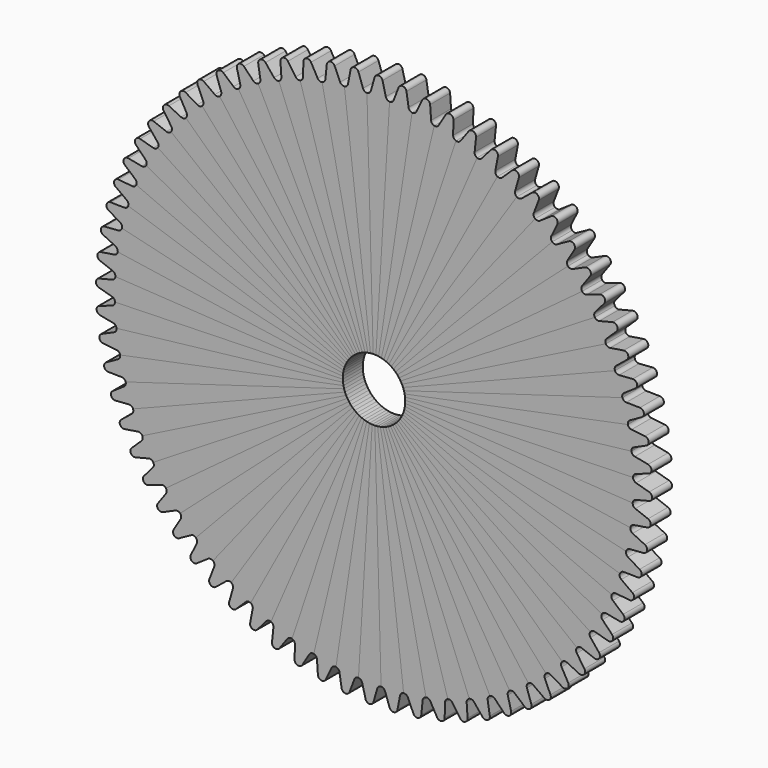
from build123d import *

# Parameters (mm, degrees)
F1_DEPTH = 5.08
F2_COUNT = 72
F3_D     = 12.7
F3_2_D   = 12.7
F3_3_D   = 12.7
F3_4_D   = 12.7
F3_5_D   = 12.7
F3_6_D   = 12.7
F3_7_D   = 12.7
F3_8_D   = 12.7
F3_9_D   = 12.7
F3_10_D  = 12.7
F3_11_D  = 12.7
F3_12_D  = 12.7
F3_13_D  = 12.7
F3_14_D  = 12.7
F3_15_D  = 12.7
F3_16_D  = 12.7
F3_17_D  = 12.7
F3_18_D  = 12.7
F3_19_D  = 12.7
F3_20_D  = 12.7
F3_21_D  = 12.7
F3_22_D  = 12.7
F3_23_D  = 12.7
F3_24_D  = 12.7
F3_25_D  = 12.7
F3_26_D  = 12.7
F3_27_D  = 12.7
F3_28_D  = 12.7
F3_29_D  = 12.7
F3_30_D  = 12.7
F3_31_D  = 12.7
F3_32_D  = 12.7
F3_33_D  = 12.7
F3_34_D  = 12.7
F3_35_D  = 12.7
F3_36_D  = 12.7
F3_37_D  = 12.7
F3_38_D  = 12.7
F3_39_D  = 12.7
F3_40_D  = 12.7
F3_41_D  = 12.7
F3_42_D  = 12.7
F3_43_D  = 12.7
F3_44_D  = 12.7
F3_45_D  = 12.7
F3_46_D  = 12.7
F3_47_D  = 12.7
F3_48_D  = 12.7
F3_49_D  = 12.7
F3_50_D  = 12.7
F3_51_D  = 12.7
F3_52_D  = 12.7
F3_53_D  = 12.7
F3_54_D  = 12.7
F3_55_D  = 12.7
F3_56_D  = 12.7
F3_57_D  = 12.7
F3_58_D  = 12.7
F3_59_D  = 12.7
F3_60_D  = 12.7
F3_61_D  = 12.7
F3_62_D  = 12.7
F3_63_D  = 12.7
F3_64_D  = 12.7
F3_65_D  = 12.7
F3_66_D  = 12.7
F3_67_D  = 12.7
F3_68_D  = 12.7
F3_69_D  = 12.7
F3_70_D  = 12.7
F3_71_D  = 12.7
F3_72_D  = 12.7


with BuildPart() as f1:
    # F0 (on Front) → F1 (new body)
    with BuildSketch(Plane.XZ):
        with BuildLine():
            Line((-33.700956, 38.01165), (0, 0))
            Line((0, 0), (-30.119028, 40.614437))
            Line((-30.119028, 40.614437), (-30.259781, 40.804236))
            Line((-30.259781, 40.804236), (-31.420876, 42.369932))
            ThreePointArc((-31.420876, 42.369932), (-31.915626, 42.205014), (-32.412133, 42.364567))
            Line((-32.412133, 42.364567), (-34.657941, 43.992649))
            ThreePointArc((-34.657941, 43.992649), (-35.678399, 43.964857), (-35.915669, 42.971977))
            Line((-35.915669, 42.971977), (-34.784782, 40.439113))
            ThreePointArc((-34.784782, 40.439113), (-34.730857, 39.920395), (-34.994093, 39.470191))
            Line((-34.994093, 39.470191), (-33.700956, 38.01165))
        make_face()
    extrude(amount=F1_DEPTH)

    # F3 (through all)
    with Locations(Plane(origin=(0, 0, 0), x_dir=(1, 0, 0), z_dir=(0, 1, 0))):
        with Locations((0, 0)):
            Hole(F3_D / 2)


with BuildPart() as f2_1:
    # F2: instance of F1
    add(f1.part.rotate(Axis((0, -2.54, 0), (0, -1, 0)), 1 * 360 / F2_COUNT))

    # F3#2 (through all)
    with Locations(Plane(origin=(0, 0, 0), x_dir=(1, 0, 0), z_dir=(0, 1, 0))):
        with Locations((0, 0)):
            Hole(F3_2_D / 2)


with BuildPart() as f2_2:
    # F2: instance of F1
    add(f1.part.rotate(Axis((0, -2.54, 0), (0, -1, 0)), 2 * 360 / F2_COUNT))

    # F3#3 (through all)
    with Locations(Plane(origin=(0, 0, 0), x_dir=(1, 0, 0), z_dir=(0, 1, 0))):
        with Locations((0, 0)):
            Hole(F3_3_D / 2)


with BuildPart() as f2_3:
    # F2: instance of F1
    add(f1.part.rotate(Axis((0, -2.54, 0), (0, -1, 0)), 3 * 360 / F2_COUNT))

    # F3#4 (through all)
    with Locations(Plane(origin=(0, 0, 0), x_dir=(1, 0, 0), z_dir=(0, 1, 0))):
        with Locations((0, 0)):
            Hole(F3_4_D / 2)


with BuildPart() as f2_4:
    # F2: instance of F1
    add(f1.part.rotate(Axis((0, -2.54, 0), (0, -1, 0)), 4 * 360 / F2_COUNT))

    # F3#5 (through all)
    with Locations(Plane(origin=(0, 0, 0), x_dir=(1, 0, 0), z_dir=(0, 1, 0))):
        with Locations((0, 0)):
            Hole(F3_5_D / 2)


with BuildPart() as f2_5:
    # F2: instance of F1
    add(f1.part.rotate(Axis((0, -2.54, 0), (0, -1, 0)), 5 * 360 / F2_COUNT))

    # F3#6 (through all)
    with Locations(Plane(origin=(0, 0, 0), x_dir=(1, 0, 0), z_dir=(0, 1, 0))):
        with Locations((0, 0)):
            Hole(F3_6_D / 2)


with BuildPart() as f2_6:
    # F2: instance of F1
    add(f1.part.rotate(Axis((0, -2.54, 0), (0, -1, 0)), 6 * 360 / F2_COUNT))

    # F3#7 (through all)
    with Locations(Plane(origin=(0, 0, 0), x_dir=(1, 0, 0), z_dir=(0, 1, 0))):
        with Locations((0, 0)):
            Hole(F3_7_D / 2)


with BuildPart() as f2_7:
    # F2: instance of F1
    add(f1.part.rotate(Axis((0, -2.54, 0), (0, -1, 0)), 7 * 360 / F2_COUNT))

    # F3#8 (through all)
    with Locations(Plane(origin=(0, 0, 0), x_dir=(1, 0, 0), z_dir=(0, 1, 0))):
        with Locations((0, 0)):
            Hole(F3_8_D / 2)


with BuildPart() as f2_8:
    # F2: instance of F1
    add(f1.part.rotate(Axis((0, -2.54, 0), (0, -1, 0)), 8 * 360 / F2_COUNT))

    # F3#9 (through all)
    with Locations(Plane(origin=(0, 0, 0), x_dir=(1, 0, 0), z_dir=(0, 1, 0))):
        with Locations((0, 0)):
            Hole(F3_9_D / 2)


with BuildPart() as f2_9:
    # F2: instance of F1
    add(f1.part.rotate(Axis((0, -2.54, 0), (0, -1, 0)), 9 * 360 / F2_COUNT))

    # F3#10 (through all)
    with Locations(Plane(origin=(0, 0, 0), x_dir=(1, 0, 0), z_dir=(0, 1, 0))):
        with Locations((0, 0)):
            Hole(F3_10_D / 2)


with BuildPart() as f2_10:
    # F2: instance of F1
    add(f1.part.rotate(Axis((0, -2.54, 0), (0, -1, 0)), 10 * 360 / F2_COUNT))

    # F3#11 (through all)
    with Locations(Plane(origin=(0, 0, 0), x_dir=(1, 0, 0), z_dir=(0, 1, 0))):
        with Locations((0, 0)):
            Hole(F3_11_D / 2)


with BuildPart() as f2_11:
    # F2: instance of F1
    add(f1.part.rotate(Axis((0, -2.54, 0), (0, -1, 0)), 11 * 360 / F2_COUNT))

    # F3#12 (through all)
    with Locations(Plane(origin=(0, 0, 0), x_dir=(1, 0, 0), z_dir=(0, 1, 0))):
        with Locations((0, 0)):
            Hole(F3_12_D / 2)


with BuildPart() as f2_12:
    # F2: instance of F1
    add(f1.part.rotate(Axis((0, -2.54, 0), (0, -1, 0)), 12 * 360 / F2_COUNT))

    # F3#13 (through all)
    with Locations(Plane(origin=(0, 0, 0), x_dir=(1, 0, 0), z_dir=(0, 1, 0))):
        with Locations((0, 0)):
            Hole(F3_13_D / 2)


with BuildPart() as f2_13:
    # F2: instance of F1
    add(f1.part.rotate(Axis((0, -2.54, 0), (0, -1, 0)), 13 * 360 / F2_COUNT))

    # F3#14 (through all)
    with Locations(Plane(origin=(0, 0, 0), x_dir=(1, 0, 0), z_dir=(0, 1, 0))):
        with Locations((0, 0)):
            Hole(F3_14_D / 2)


with BuildPart() as f2_14:
    # F2: instance of F1
    add(f1.part.rotate(Axis((0, -2.54, 0), (0, -1, 0)), 14 * 360 / F2_COUNT))

    # F3#15 (through all)
    with Locations(Plane(origin=(0, 0, 0), x_dir=(1, 0, 0), z_dir=(0, 1, 0))):
        with Locations((0, 0)):
            Hole(F3_15_D / 2)


with BuildPart() as f2_15:
    # F2: instance of F1
    add(f1.part.rotate(Axis((0, -2.54, 0), (0, -1, 0)), 15 * 360 / F2_COUNT))

    # F3#16 (through all)
    with Locations(Plane(origin=(0, 0, 0), x_dir=(1, 0, 0), z_dir=(0, 1, 0))):
        with Locations((0, 0)):
            Hole(F3_16_D / 2)


with BuildPart() as f2_16:
    # F2: instance of F1
    add(f1.part.rotate(Axis((0, -2.54, 0), (0, -1, 0)), 16 * 360 / F2_COUNT))

    # F3#17 (through all)
    with Locations(Plane(origin=(0, 0, 0), x_dir=(1, 0, 0), z_dir=(0, 1, 0))):
        with Locations((0, 0)):
            Hole(F3_17_D / 2)


with BuildPart() as f2_17:
    # F2: instance of F1
    add(f1.part.rotate(Axis((0, -2.54, 0), (0, -1, 0)), 17 * 360 / F2_COUNT))

    # F3#18 (through all)
    with Locations(Plane(origin=(0, 0, 0), x_dir=(1, 0, 0), z_dir=(0, 1, 0))):
        with Locations((0, 0)):
            Hole(F3_18_D / 2)


with BuildPart() as f2_18:
    # F2: instance of F1
    add(f1.part.rotate(Axis((0, -2.54, 0), (0, -1, 0)), 18 * 360 / F2_COUNT))

    # F3#19 (through all)
    with Locations(Plane(origin=(0, 0, 0), x_dir=(1, 0, 0), z_dir=(0, 1, 0))):
        with Locations((0, 0)):
            Hole(F3_19_D / 2)


with BuildPart() as f2_19:
    # F2: instance of F1
    add(f1.part.rotate(Axis((0, -2.54, 0), (0, -1, 0)), 19 * 360 / F2_COUNT))

    # F3#20 (through all)
    with Locations(Plane(origin=(0, 0, 0), x_dir=(1, 0, 0), z_dir=(0, 1, 0))):
        with Locations((0, 0)):
            Hole(F3_20_D / 2)


with BuildPart() as f2_20:
    # F2: instance of F1
    add(f1.part.rotate(Axis((0, -2.54, 0), (0, -1, 0)), 20 * 360 / F2_COUNT))

    # F3#21 (through all)
    with Locations(Plane(origin=(0, 0, 0), x_dir=(1, 0, 0), z_dir=(0, 1, 0))):
        with Locations((0, 0)):
            Hole(F3_21_D / 2)


with BuildPart() as f2_21:
    # F2: instance of F1
    add(f1.part.rotate(Axis((0, -2.54, 0), (0, -1, 0)), 21 * 360 / F2_COUNT))

    # F3#22 (through all)
    with Locations(Plane(origin=(0, 0, 0), x_dir=(1, 0, 0), z_dir=(0, 1, 0))):
        with Locations((0, 0)):
            Hole(F3_22_D / 2)


with BuildPart() as f2_22:
    # F2: instance of F1
    add(f1.part.rotate(Axis((0, -2.54, 0), (0, -1, 0)), 22 * 360 / F2_COUNT))

    # F3#23 (through all)
    with Locations(Plane(origin=(0, 0, 0), x_dir=(1, 0, 0), z_dir=(0, 1, 0))):
        with Locations((0, 0)):
            Hole(F3_23_D / 2)


with BuildPart() as f2_23:
    # F2: instance of F1
    add(f1.part.rotate(Axis((0, -2.54, 0), (0, -1, 0)), 23 * 360 / F2_COUNT))

    # F3#24 (through all)
    with Locations(Plane(origin=(0, 0, 0), x_dir=(1, 0, 0), z_dir=(0, 1, 0))):
        with Locations((0, 0)):
            Hole(F3_24_D / 2)


with BuildPart() as f2_24:
    # F2: instance of F1
    add(f1.part.rotate(Axis((0, -2.54, 0), (0, -1, 0)), 24 * 360 / F2_COUNT))

    # F3#25 (through all)
    with Locations(Plane(origin=(0, 0, 0), x_dir=(1, 0, 0), z_dir=(0, 1, 0))):
        with Locations((0, 0)):
            Hole(F3_25_D / 2)


with BuildPart() as f2_25:
    # F2: instance of F1
    add(f1.part.rotate(Axis((0, -2.54, 0), (0, -1, 0)), 25 * 360 / F2_COUNT))

    # F3#26 (through all)
    with Locations(Plane(origin=(0, 0, 0), x_dir=(1, 0, 0), z_dir=(0, 1, 0))):
        with Locations((0, 0)):
            Hole(F3_26_D / 2)


with BuildPart() as f2_26:
    # F2: instance of F1
    add(f1.part.rotate(Axis((0, -2.54, 0), (0, -1, 0)), 26 * 360 / F2_COUNT))

    # F3#27 (through all)
    with Locations(Plane(origin=(0, 0, 0), x_dir=(1, 0, 0), z_dir=(0, 1, 0))):
        with Locations((0, 0)):
            Hole(F3_27_D / 2)


with BuildPart() as f2_27:
    # F2: instance of F1
    add(f1.part.rotate(Axis((0, -2.54, 0), (0, -1, 0)), 27 * 360 / F2_COUNT))

    # F3#28 (through all)
    with Locations(Plane(origin=(0, 0, 0), x_dir=(1, 0, 0), z_dir=(0, 1, 0))):
        with Locations((0, 0)):
            Hole(F3_28_D / 2)


with BuildPart() as f2_28:
    # F2: instance of F1
    add(f1.part.rotate(Axis((0, -2.54, 0), (0, -1, 0)), 28 * 360 / F2_COUNT))

    # F3#29 (through all)
    with Locations(Plane(origin=(0, 0, 0), x_dir=(1, 0, 0), z_dir=(0, 1, 0))):
        with Locations((0, 0)):
            Hole(F3_29_D / 2)


with BuildPart() as f2_29:
    # F2: instance of F1
    add(f1.part.rotate(Axis((0, -2.54, 0), (0, -1, 0)), 29 * 360 / F2_COUNT))

    # F3#30 (through all)
    with Locations(Plane(origin=(0, 0, 0), x_dir=(1, 0, 0), z_dir=(0, 1, 0))):
        with Locations((0, 0)):
            Hole(F3_30_D / 2)


with BuildPart() as f2_30:
    # F2: instance of F1
    add(f1.part.rotate(Axis((0, -2.54, 0), (0, -1, 0)), 30 * 360 / F2_COUNT))

    # F3#31 (through all)
    with Locations(Plane(origin=(0, 0, 0), x_dir=(1, 0, 0), z_dir=(0, 1, 0))):
        with Locations((0, 0)):
            Hole(F3_31_D / 2)


with BuildPart() as f2_31:
    # F2: instance of F1
    add(f1.part.rotate(Axis((0, -2.54, 0), (0, -1, 0)), 31 * 360 / F2_COUNT))

    # F3#32 (through all)
    with Locations(Plane(origin=(0, 0, 0), x_dir=(1, 0, 0), z_dir=(0, 1, 0))):
        with Locations((0, 0)):
            Hole(F3_32_D / 2)


with BuildPart() as f2_32:
    # F2: instance of F1
    add(f1.part.rotate(Axis((0, -2.54, 0), (0, -1, 0)), 32 * 360 / F2_COUNT))

    # F3#33 (through all)
    with Locations(Plane(origin=(0, 0, 0), x_dir=(1, 0, 0), z_dir=(0, 1, 0))):
        with Locations((0, 0)):
            Hole(F3_33_D / 2)


with BuildPart() as f2_33:
    # F2: instance of F1
    add(f1.part.rotate(Axis((0, -2.54, 0), (0, -1, 0)), 33 * 360 / F2_COUNT))

    # F3#34 (through all)
    with Locations(Plane(origin=(0, 0, 0), x_dir=(1, 0, 0), z_dir=(0, 1, 0))):
        with Locations((0, 0)):
            Hole(F3_34_D / 2)


with BuildPart() as f2_34:
    # F2: instance of F1
    add(f1.part.rotate(Axis((0, -2.54, 0), (0, -1, 0)), 34 * 360 / F2_COUNT))

    # F3#35 (through all)
    with Locations(Plane(origin=(0, 0, 0), x_dir=(1, 0, 0), z_dir=(0, 1, 0))):
        with Locations((0, 0)):
            Hole(F3_35_D / 2)


with BuildPart() as f2_35:
    # F2: instance of F1
    add(f1.part.rotate(Axis((0, -2.54, 0), (0, -1, 0)), 35 * 360 / F2_COUNT))

    # F3#36 (through all)
    with Locations(Plane(origin=(0, 0, 0), x_dir=(1, 0, 0), z_dir=(0, 1, 0))):
        with Locations((0, 0)):
            Hole(F3_36_D / 2)


with BuildPart() as f2_36:
    # F2: instance of F1
    add(f1.part.rotate(Axis((0, -2.54, 0), (0, -1, 0)), 36 * 360 / F2_COUNT))

    # F3#37 (through all)
    with Locations(Plane(origin=(0, 0, 0), x_dir=(1, 0, 0), z_dir=(0, 1, 0))):
        with Locations((0, 0)):
            Hole(F3_37_D / 2)


with BuildPart() as f2_37:
    # F2: instance of F1
    add(f1.part.rotate(Axis((0, -2.54, 0), (0, -1, 0)), 37 * 360 / F2_COUNT))

    # F3#38 (through all)
    with Locations(Plane(origin=(0, 0, 0), x_dir=(1, 0, 0), z_dir=(0, 1, 0))):
        with Locations((0, 0)):
            Hole(F3_38_D / 2)


with BuildPart() as f2_38:
    # F2: instance of F1
    add(f1.part.rotate(Axis((0, -2.54, 0), (0, -1, 0)), 38 * 360 / F2_COUNT))

    # F3#39 (through all)
    with Locations(Plane(origin=(0, 0, 0), x_dir=(1, 0, 0), z_dir=(0, 1, 0))):
        with Locations((0, 0)):
            Hole(F3_39_D / 2)


with BuildPart() as f2_39:
    # F2: instance of F1
    add(f1.part.rotate(Axis((0, -2.54, 0), (0, -1, 0)), 39 * 360 / F2_COUNT))

    # F3#40 (through all)
    with Locations(Plane(origin=(0, 0, 0), x_dir=(1, 0, 0), z_dir=(0, 1, 0))):
        with Locations((0, 0)):
            Hole(F3_40_D / 2)


with BuildPart() as f2_40:
    # F2: instance of F1
    add(f1.part.rotate(Axis((0, -2.54, 0), (0, -1, 0)), 40 * 360 / F2_COUNT))

    # F3#41 (through all)
    with Locations(Plane(origin=(0, 0, 0), x_dir=(1, 0, 0), z_dir=(0, 1, 0))):
        with Locations((0, 0)):
            Hole(F3_41_D / 2)


with BuildPart() as f2_41:
    # F2: instance of F1
    add(f1.part.rotate(Axis((0, -2.54, 0), (0, -1, 0)), 41 * 360 / F2_COUNT))

    # F3#42 (through all)
    with Locations(Plane(origin=(0, 0, 0), x_dir=(1, 0, 0), z_dir=(0, 1, 0))):
        with Locations((0, 0)):
            Hole(F3_42_D / 2)


with BuildPart() as f2_42:
    # F2: instance of F1
    add(f1.part.rotate(Axis((0, -2.54, 0), (0, -1, 0)), 42 * 360 / F2_COUNT))

    # F3#43 (through all)
    with Locations(Plane(origin=(0, 0, 0), x_dir=(1, 0, 0), z_dir=(0, 1, 0))):
        with Locations((0, 0)):
            Hole(F3_43_D / 2)


with BuildPart() as f2_43:
    # F2: instance of F1
    add(f1.part.rotate(Axis((0, -2.54, 0), (0, -1, 0)), 43 * 360 / F2_COUNT))

    # F3#44 (through all)
    with Locations(Plane(origin=(0, 0, 0), x_dir=(1, 0, 0), z_dir=(0, 1, 0))):
        with Locations((0, 0)):
            Hole(F3_44_D / 2)


with BuildPart() as f2_44:
    # F2: instance of F1
    add(f1.part.rotate(Axis((0, -2.54, 0), (0, -1, 0)), 44 * 360 / F2_COUNT))

    # F3#45 (through all)
    with Locations(Plane(origin=(0, 0, 0), x_dir=(1, 0, 0), z_dir=(0, 1, 0))):
        with Locations((0, 0)):
            Hole(F3_45_D / 2)


with BuildPart() as f2_45:
    # F2: instance of F1
    add(f1.part.rotate(Axis((0, -2.54, 0), (0, -1, 0)), 45 * 360 / F2_COUNT))

    # F3#46 (through all)
    with Locations(Plane(origin=(0, 0, 0), x_dir=(1, 0, 0), z_dir=(0, 1, 0))):
        with Locations((0, 0)):
            Hole(F3_46_D / 2)


with BuildPart() as f2_46:
    # F2: instance of F1
    add(f1.part.rotate(Axis((0, -2.54, 0), (0, -1, 0)), 46 * 360 / F2_COUNT))

    # F3#47 (through all)
    with Locations(Plane(origin=(0, 0, 0), x_dir=(1, 0, 0), z_dir=(0, 1, 0))):
        with Locations((0, 0)):
            Hole(F3_47_D / 2)


with BuildPart() as f2_47:
    # F2: instance of F1
    add(f1.part.rotate(Axis((0, -2.54, 0), (0, -1, 0)), 47 * 360 / F2_COUNT))

    # F3#48 (through all)
    with Locations(Plane(origin=(0, 0, 0), x_dir=(1, 0, 0), z_dir=(0, 1, 0))):
        with Locations((0, 0)):
            Hole(F3_48_D / 2)


with BuildPart() as f2_48:
    # F2: instance of F1
    add(f1.part.rotate(Axis((0, -2.54, 0), (0, -1, 0)), 48 * 360 / F2_COUNT))

    # F3#49 (through all)
    with Locations(Plane(origin=(0, 0, 0), x_dir=(1, 0, 0), z_dir=(0, 1, 0))):
        with Locations((0, 0)):
            Hole(F3_49_D / 2)


with BuildPart() as f2_49:
    # F2: instance of F1
    add(f1.part.rotate(Axis((0, -2.54, 0), (0, -1, 0)), 49 * 360 / F2_COUNT))

    # F3#50 (through all)
    with Locations(Plane(origin=(0, 0, 0), x_dir=(1, 0, 0), z_dir=(0, 1, 0))):
        with Locations((0, 0)):
            Hole(F3_50_D / 2)


with BuildPart() as f2_50:
    # F2: instance of F1
    add(f1.part.rotate(Axis((0, -2.54, 0), (0, -1, 0)), 50 * 360 / F2_COUNT))

    # F3#51 (through all)
    with Locations(Plane(origin=(0, 0, 0), x_dir=(1, 0, 0), z_dir=(0, 1, 0))):
        with Locations((0, 0)):
            Hole(F3_51_D / 2)


with BuildPart() as f2_51:
    # F2: instance of F1
    add(f1.part.rotate(Axis((0, -2.54, 0), (0, -1, 0)), 51 * 360 / F2_COUNT))

    # F3#52 (through all)
    with Locations(Plane(origin=(0, 0, 0), x_dir=(1, 0, 0), z_dir=(0, 1, 0))):
        with Locations((0, 0)):
            Hole(F3_52_D / 2)


with BuildPart() as f2_52:
    # F2: instance of F1
    add(f1.part.rotate(Axis((0, -2.54, 0), (0, -1, 0)), 52 * 360 / F2_COUNT))

    # F3#53 (through all)
    with Locations(Plane(origin=(0, 0, 0), x_dir=(1, 0, 0), z_dir=(0, 1, 0))):
        with Locations((0, 0)):
            Hole(F3_53_D / 2)


with BuildPart() as f2_53:
    # F2: instance of F1
    add(f1.part.rotate(Axis((0, -2.54, 0), (0, -1, 0)), 53 * 360 / F2_COUNT))

    # F3#54 (through all)
    with Locations(Plane(origin=(0, 0, 0), x_dir=(1, 0, 0), z_dir=(0, 1, 0))):
        with Locations((0, 0)):
            Hole(F3_54_D / 2)


with BuildPart() as f2_54:
    # F2: instance of F1
    add(f1.part.rotate(Axis((0, -2.54, 0), (0, -1, 0)), 54 * 360 / F2_COUNT))

    # F3#55 (through all)
    with Locations(Plane(origin=(0, 0, 0), x_dir=(1, 0, 0), z_dir=(0, 1, 0))):
        with Locations((0, 0)):
            Hole(F3_55_D / 2)


with BuildPart() as f2_55:
    # F2: instance of F1
    add(f1.part.rotate(Axis((0, -2.54, 0), (0, -1, 0)), 55 * 360 / F2_COUNT))

    # F3#56 (through all)
    with Locations(Plane(origin=(0, 0, 0), x_dir=(1, 0, 0), z_dir=(0, 1, 0))):
        with Locations((0, 0)):
            Hole(F3_56_D / 2)


with BuildPart() as f2_56:
    # F2: instance of F1
    add(f1.part.rotate(Axis((0, -2.54, 0), (0, -1, 0)), 56 * 360 / F2_COUNT))

    # F3#57 (through all)
    with Locations(Plane(origin=(0, 0, 0), x_dir=(1, 0, 0), z_dir=(0, 1, 0))):
        with Locations((0, 0)):
            Hole(F3_57_D / 2)


with BuildPart() as f2_57:
    # F2: instance of F1
    add(f1.part.rotate(Axis((0, -2.54, 0), (0, -1, 0)), 57 * 360 / F2_COUNT))

    # F3#58 (through all)
    with Locations(Plane(origin=(0, 0, 0), x_dir=(1, 0, 0), z_dir=(0, 1, 0))):
        with Locations((0, 0)):
            Hole(F3_58_D / 2)


with BuildPart() as f2_58:
    # F2: instance of F1
    add(f1.part.rotate(Axis((0, -2.54, 0), (0, -1, 0)), 58 * 360 / F2_COUNT))

    # F3#59 (through all)
    with Locations(Plane(origin=(0, 0, 0), x_dir=(1, 0, 0), z_dir=(0, 1, 0))):
        with Locations((0, 0)):
            Hole(F3_59_D / 2)


with BuildPart() as f2_59:
    # F2: instance of F1
    add(f1.part.rotate(Axis((0, -2.54, 0), (0, -1, 0)), 59 * 360 / F2_COUNT))

    # F3#60 (through all)
    with Locations(Plane(origin=(0, 0, 0), x_dir=(1, 0, 0), z_dir=(0, 1, 0))):
        with Locations((0, 0)):
            Hole(F3_60_D / 2)


with BuildPart() as f2_60:
    # F2: instance of F1
    add(f1.part.rotate(Axis((0, -2.54, 0), (0, -1, 0)), 60 * 360 / F2_COUNT))

    # F3#61 (through all)
    with Locations(Plane(origin=(0, 0, 0), x_dir=(1, 0, 0), z_dir=(0, 1, 0))):
        with Locations((0, 0)):
            Hole(F3_61_D / 2)


with BuildPart() as f2_61:
    # F2: instance of F1
    add(f1.part.rotate(Axis((0, -2.54, 0), (0, -1, 0)), 61 * 360 / F2_COUNT))

    # F3#62 (through all)
    with Locations(Plane(origin=(0, 0, 0), x_dir=(1, 0, 0), z_dir=(0, 1, 0))):
        with Locations((0, 0)):
            Hole(F3_62_D / 2)


with BuildPart() as f2_62:
    # F2: instance of F1
    add(f1.part.rotate(Axis((0, -2.54, 0), (0, -1, 0)), 62 * 360 / F2_COUNT))

    # F3#63 (through all)
    with Locations(Plane(origin=(0, 0, 0), x_dir=(1, 0, 0), z_dir=(0, 1, 0))):
        with Locations((0, 0)):
            Hole(F3_63_D / 2)


with BuildPart() as f2_63:
    # F2: instance of F1
    add(f1.part.rotate(Axis((0, -2.54, 0), (0, -1, 0)), 63 * 360 / F2_COUNT))

    # F3#64 (through all)
    with Locations(Plane(origin=(0, 0, 0), x_dir=(1, 0, 0), z_dir=(0, 1, 0))):
        with Locations((0, 0)):
            Hole(F3_64_D / 2)


with BuildPart() as f2_64:
    # F2: instance of F1
    add(f1.part.rotate(Axis((0, -2.54, 0), (0, -1, 0)), 64 * 360 / F2_COUNT))

    # F3#65 (through all)
    with Locations(Plane(origin=(0, 0, 0), x_dir=(1, 0, 0), z_dir=(0, 1, 0))):
        with Locations((0, 0)):
            Hole(F3_65_D / 2)


with BuildPart() as f2_65:
    # F2: instance of F1
    add(f1.part.rotate(Axis((0, -2.54, 0), (0, -1, 0)), 65 * 360 / F2_COUNT))

    # F3#66 (through all)
    with Locations(Plane(origin=(0, 0, 0), x_dir=(1, 0, 0), z_dir=(0, 1, 0))):
        with Locations((0, 0)):
            Hole(F3_66_D / 2)


with BuildPart() as f2_66:
    # F2: instance of F1
    add(f1.part.rotate(Axis((0, -2.54, 0), (0, -1, 0)), 66 * 360 / F2_COUNT))

    # F3#67 (through all)
    with Locations(Plane(origin=(0, 0, 0), x_dir=(1, 0, 0), z_dir=(0, 1, 0))):
        with Locations((0, 0)):
            Hole(F3_67_D / 2)


with BuildPart() as f2_67:
    # F2: instance of F1
    add(f1.part.rotate(Axis((0, -2.54, 0), (0, -1, 0)), 67 * 360 / F2_COUNT))

    # F3#68 (through all)
    with Locations(Plane(origin=(0, 0, 0), x_dir=(1, 0, 0), z_dir=(0, 1, 0))):
        with Locations((0, 0)):
            Hole(F3_68_D / 2)


with BuildPart() as f2_68:
    # F2: instance of F1
    add(f1.part.rotate(Axis((0, -2.54, 0), (0, -1, 0)), 68 * 360 / F2_COUNT))

    # F3#69 (through all)
    with Locations(Plane(origin=(0, 0, 0), x_dir=(1, 0, 0), z_dir=(0, 1, 0))):
        with Locations((0, 0)):
            Hole(F3_69_D / 2)


with BuildPart() as f2_69:
    # F2: instance of F1
    add(f1.part.rotate(Axis((0, -2.54, 0), (0, -1, 0)), 69 * 360 / F2_COUNT))

    # F3#70 (through all)
    with Locations(Plane(origin=(0, 0, 0), x_dir=(1, 0, 0), z_dir=(0, 1, 0))):
        with Locations((0, 0)):
            Hole(F3_70_D / 2)


with BuildPart() as f2_70:
    # F2: instance of F1
    add(f1.part.rotate(Axis((0, -2.54, 0), (0, -1, 0)), 70 * 360 / F2_COUNT))

    # F3#71 (through all)
    with Locations(Plane(origin=(0, 0, 0), x_dir=(1, 0, 0), z_dir=(0, 1, 0))):
        with Locations((0, 0)):
            Hole(F3_71_D / 2)


with BuildPart() as f2_71:
    # F2: instance of F1
    add(f1.part.rotate(Axis((0, -2.54, 0), (0, -1, 0)), 71 * 360 / F2_COUNT))

    # F3#72 (through all)
    with Locations(Plane(origin=(0, 0, 0), x_dir=(1, 0, 0), z_dir=(0, 1, 0))):
        with Locations((0, 0)):
            Hole(F3_72_D / 2)


solid = Compound([f1.part, f2_1.part, f2_2.part, f2_3.part, f2_4.part, f2_5.part, f2_6.part, f2_7.part, f2_8.part, f2_9.part, f2_10.part, f2_11.part, f2_12.part, f2_13.part, f2_14.part, f2_15.part, f2_16.part, f2_17.part, f2_18.part, f2_19.part, f2_20.part, f2_21.part, f2_22.part, f2_23.part, f2_24.part, f2_25.part, f2_26.part, f2_27.part, f2_28.part, f2_29.part, f2_30.part, f2_31.part, f2_32.part, f2_33.part, f2_34.part, f2_35.part, f2_36.part, f2_37.part, f2_38.part, f2_39.part, f2_40.part, f2_41.part, f2_42.part, f2_43.part, f2_44.part, f2_45.part, f2_46.part, f2_47.part, f2_48.part, f2_49.part, f2_50.part, f2_51.part, f2_52.part, f2_53.part, f2_54.part, f2_55.part, f2_56.part, f2_57.part, f2_58.part, f2_59.part, f2_60.part, f2_61.part, f2_62.part, f2_63.part, f2_64.part, f2_65.part, f2_66.part, f2_67.part, f2_68.part, f2_69.part, f2_70.part, f2_71.part])
